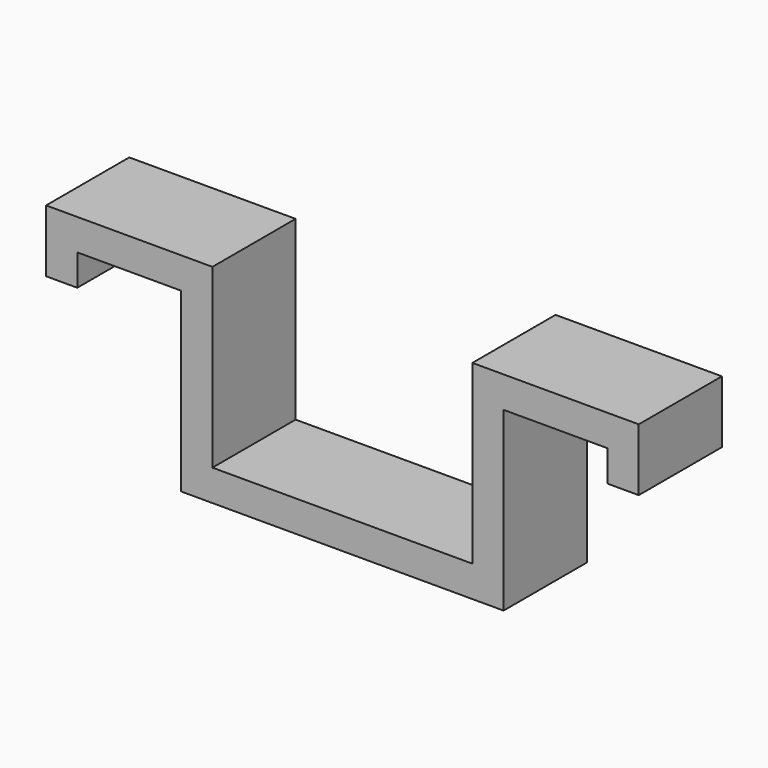
from build123d import *

# Parameters (mm, degrees)
SKETCH_W      = 57
SKETCH_H      = 20
PAD_DEPTH     = 10
SKETCH001_W   = 10
SKETCH001_H   = 17
SKETCH001_W_2 = 3
SKETCH001_H_2 = 14
SKETCH001_W_3 = 25
POCKET_DEPTH  = 10


with BuildPart() as part:
    # Sketch → Pad (new body)
    with BuildSketch(Plane.XZ):
        with Locations((28.5, 10)):
            Rectangle(SKETCH_W, SKETCH_H)
    extrude(amount=PAD_DEPTH)

    # Sketch001 (on Face6 of Pad) → Pocket (cut)
    with BuildSketch(Plane.XZ.offset(10)):
        with Locations((8, 8.5)):
            Rectangle(SKETCH001_W, SKETCH001_H)
        with Locations((1.5, 7)):
            Rectangle(SKETCH001_W_2, SKETCH001_H_2)
        with Locations((28.5, 11.5)):
            Rectangle(SKETCH001_W_3, SKETCH001_H)
        with Locations((49, 8.5)):
            Rectangle(SKETCH001_W, SKETCH001_H)
        with Locations((55.5, 7)):
            Rectangle(SKETCH001_W_2, SKETCH001_H_2)
    extrude(amount=-POCKET_DEPTH, mode=Mode.SUBTRACT)


solid = part.part
